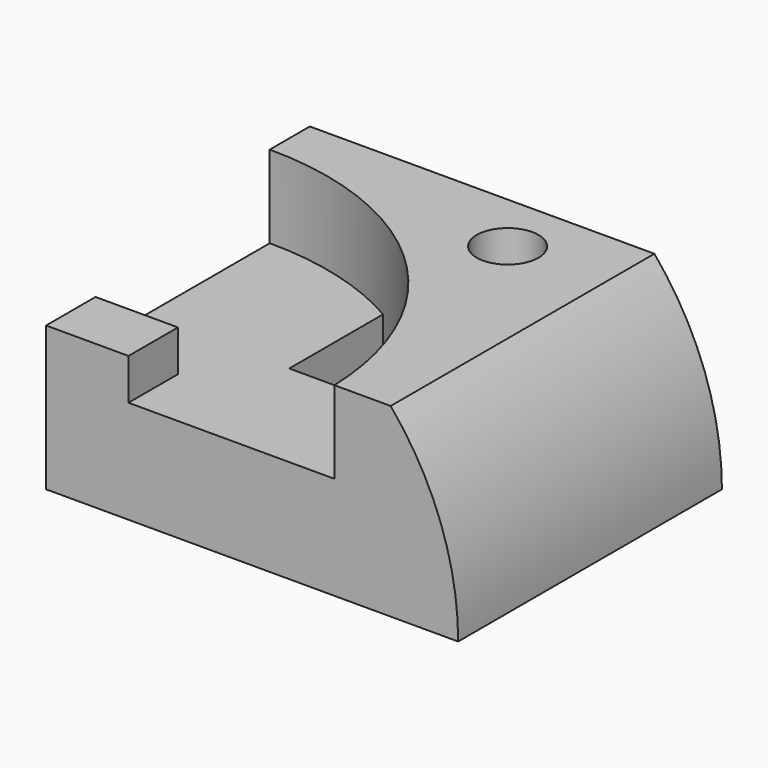
from build123d import *

# Parameters (mm, degrees)
F0_W      = 100
F0_H      = 80
F1_DEPTH  = 45
F2_R      = 70
F3_DEPTH  = 20
F4_W      = 20
F4_H      = 15
F5_DEPTH  = 10
F7_DEPTH  = 25
F8_R      = 7.5
F9_DEPTH  = 30
F11_DEPTH = 80


with BuildPart() as f1:
    # F0 (on Top) → F1 (new body)
    with BuildSketch(Plane.XY):
        with Locations((50, 40)):
            Rectangle(F0_W, F0_H)
    extrude(amount=F1_DEPTH)

    # F2 (on face) → F3 (cut)
    with BuildSketch(Plane.XY.offset(45)):
        with Locations((0, -2.1579118226)):
            Circle(F2_R)
    extrude(amount=-F3_DEPTH, mode=Mode.SUBTRACT)

    # F4 (on face) → F5 (join)
    with BuildSketch(Plane.XY.offset(25)):
        with Locations((10, 7.5)):
            Rectangle(F4_W, F4_H)
    extrude(amount=F5_DEPTH)

    # F6 (on face) → F7 (cut, through all)
    with BuildSketch(Plane.XY.offset(25)):
        with BuildLine():
            ThreePointArc((62.176110422, 30), (50.6295075267, 46.1810265977), (35, 58.4638664423))
            Line((35, 58.4638664423), (35, 30))
            Line((35, 30), (62.176110422, 30))
        make_face()
    extrude(amount=-F7_DEPTH, mode=Mode.SUBTRACT)

    # F8 (on face) → F9 (cut)
    with BuildSketch(Plane.XY.offset(45)):
        with Locations((60, 65)):
            Circle(F8_R)
    extrude(amount=-F9_DEPTH, mode=Mode.SUBTRACT)

    # F10 (on face) → F11 (cut, through all)
    with BuildSketch(Plane.XZ):
        with BuildLine():
            ThreePointArc((83.6190264738, 45), (95.7773967757, 23.944395449), (100, 0))
            Line((100, 0), (100, 45))
            Line((100, 45), (83.6190264738, 45))
        make_face()
    extrude(amount=-F11_DEPTH, mode=Mode.SUBTRACT)


solid = f1.part
